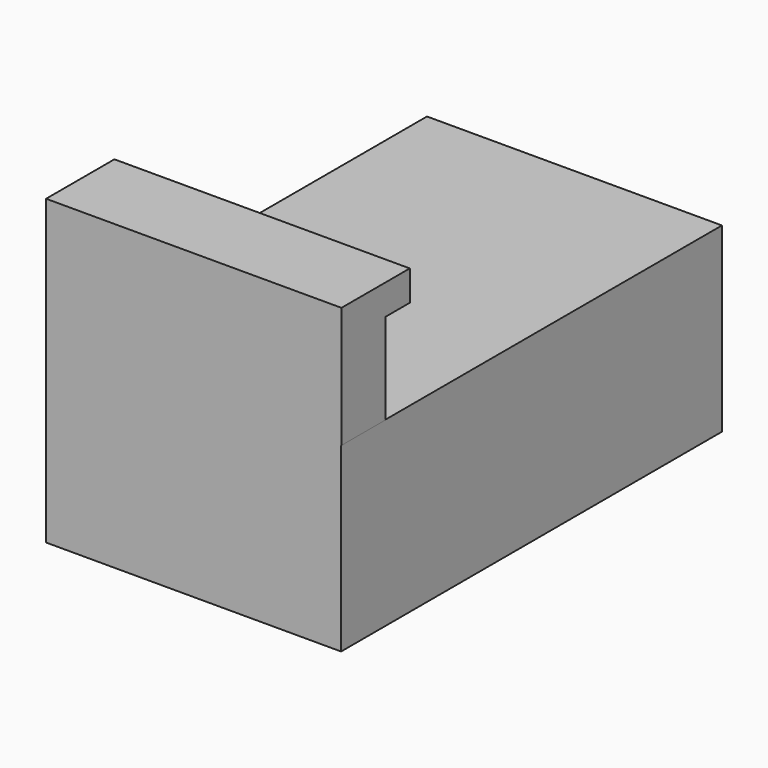
from build123d import *

# Parameters (mm, degrees)
F1_W     = 61.967276
F1_H     = 11.567712
F2_DEPTH = 25.4
F0_W     = 61.878238
F0_H     = 99.868604
F3_DEPTH = 38.1
F4_W     = 61.967276
F4_H     = 6.35
F5_DEPTH = 6.35


with BuildPart() as f2:
    # F1 (on Top) → F2 (new body)
    with BuildSketch(Plane.XY):
        with Locations((0.029806, -44.150446)):
            Rectangle(F1_W, F1_H)
    extrude(amount=F2_DEPTH)

    # F0 (on Top) → F3 (join)
    with BuildSketch(Plane.XY):
        Rectangle(F0_W, F0_H)
    extrude(amount=-F3_DEPTH)

    # F4 (on face) → F5 (join)
    with BuildSketch(Plane(origin=(0, -38.36659, 0), x_dir=(-1, 0, 0), z_dir=(0, 1, 0))):
        with Locations((-0.029806, 22.225)):
            Rectangle(F4_W, F4_H)
    extrude(amount=F5_DEPTH)


solid = f2.part
